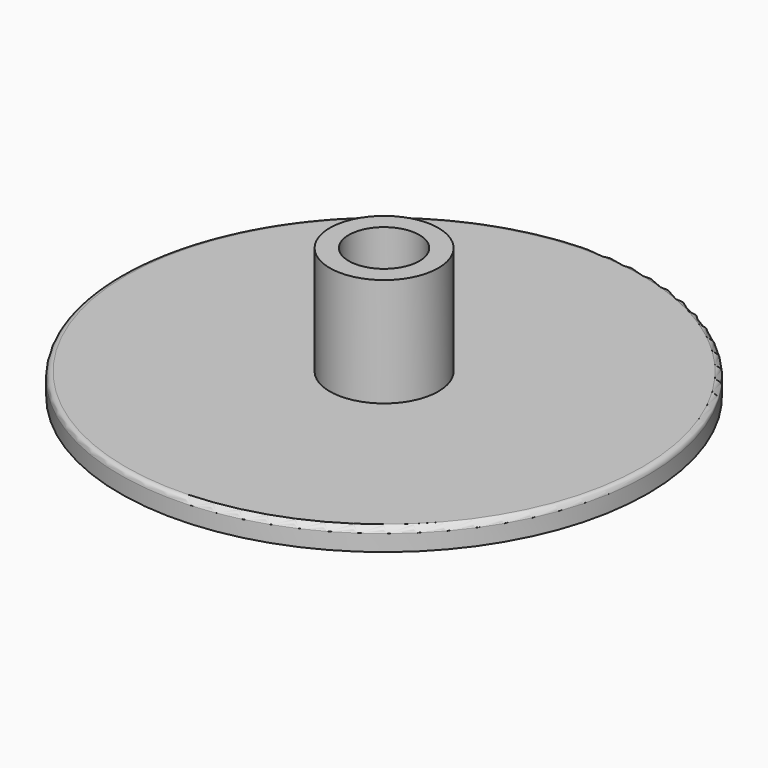
from build123d import *

# Parameters (mm, degrees)
SKETCH_R     = 12.15
PAD_DEPTH    = 1
FILLET_R     = 0.25
SKETCH001_R  = 2.5
PAD001_DEPTH = 5
SKETCH002_R  = 1.625
POCKET_DEPTH = 5


with BuildPart() as part:
    # Sketch → Pad (new body)
    with BuildSketch(Plane.XY):
        Circle(SKETCH_R)
    extrude(amount=PAD_DEPTH)

    # Fillet
    fillet_edges = [part.edges().sort_by_distance(p)[0] for p in [
        (-12.15, 0, 1),
    ]]
    fillet(fillet_edges, radius=FILLET_R)

    # Sketch001 (on Face4 of Fillet) → Pad001 (join)
    with BuildSketch(Plane.XY.offset(1)):
        Circle(SKETCH001_R)
    extrude(amount=PAD001_DEPTH)

    # Sketch002 (on Face6 of Pad001) → Pocket (cut)
    with BuildSketch(Plane.XY.offset(6)):
        Circle(SKETCH002_R)
    extrude(amount=-POCKET_DEPTH, mode=Mode.SUBTRACT)


solid = part.part
